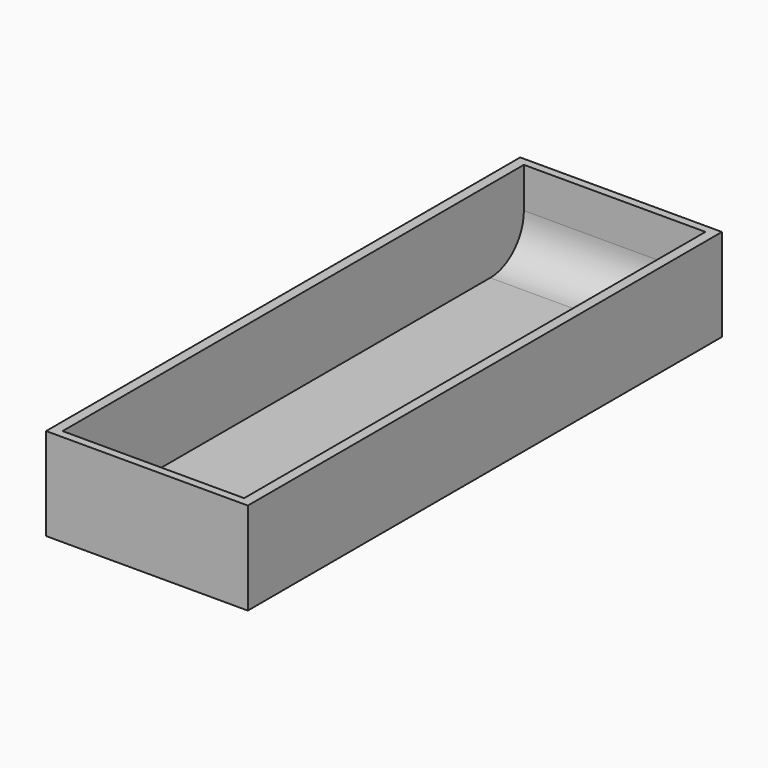
from build123d import *

# Parameters (mm, degrees)
F0_W     = 48
F0_H     = 141
F0_W_2   = 43.2
F0_H_2   = 137.2
F1_DEPTH = 2.4
F2_DEPTH = 22
F3_R     = 10
F4_SCALE = 0.99


with BuildPart() as f1:
    # F0 (on Top) → F1 (new body)
    with BuildSketch(Plane.XY):
        Rectangle(F0_W, F0_H)
        Rectangle(F0_W_2, F0_H_2, mode=Mode.SUBTRACT)
        Rectangle(F0_W_2, F0_H_2)
    extrude(amount=F1_DEPTH)

    # F0 (on Top) → F2 (join)
    with BuildSketch(Plane.XY):
        Rectangle(F0_W, F0_H)
        Rectangle(F0_W_2, F0_H_2, mode=Mode.SUBTRACT)
    extrude(amount=F2_DEPTH)

    # F3
    f3_edges = [f1.edges().sort_by_distance(p)[0] for p in [
        (0, -68.6, 2.4),
        (0, 68.6, 2.4),
    ]]
    fillet(f3_edges, radius=F3_R)


with BuildPart() as f1_1:
    # F4: moved
    add(f1.part.scale(F4_SCALE))


solid = f1_1.part
